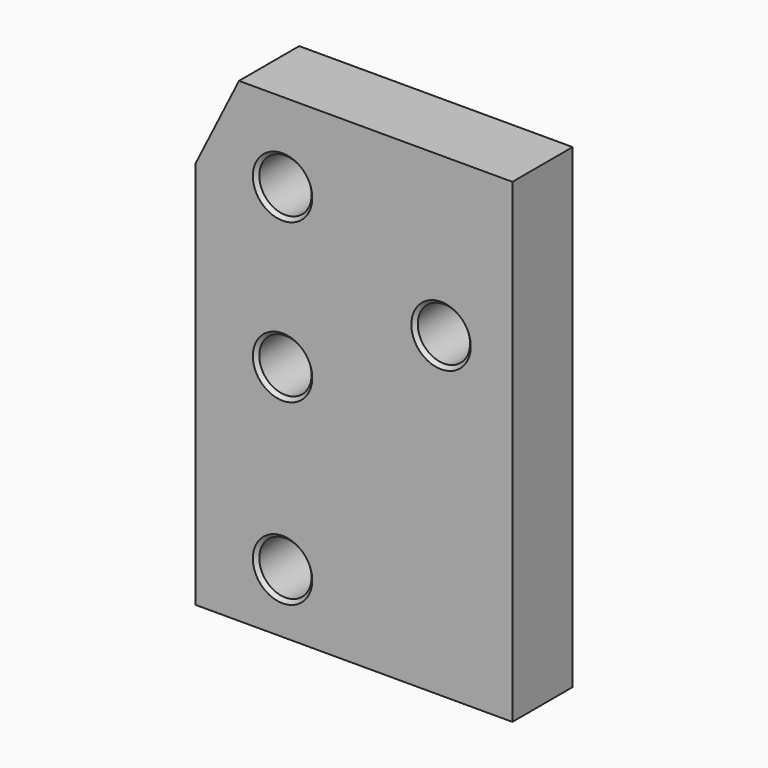
from build123d import *

# Parameters (mm, degrees)
F1_DEPTH       = 19
F3_D           = 13.2
F3_CSINK_D     = 15
F3_CSINK_ANGLE = 90


with BuildPart() as f1:
    # F0 (on Front) → F1 (new body)
    with BuildSketch(Plane.XZ):
        Polygon((0, 98), (0, 0), (80, 0), (80, 120), (11, 120), align=None)
        Polygon((0, 98), (0, 0), (80, 0), (80, 120), (11, 120), align=None)
    extrude(amount=F1_DEPTH)

    # F3 (through all)
    with Locations(Plane.XZ.offset(19)):
        with Locations((62, 80), (22, 15), (22, 60), (22, 100)):
            CounterSinkHole(F3_D / 2, F3_CSINK_D / 2, counter_sink_angle=F3_CSINK_ANGLE)


solid = f1.part
